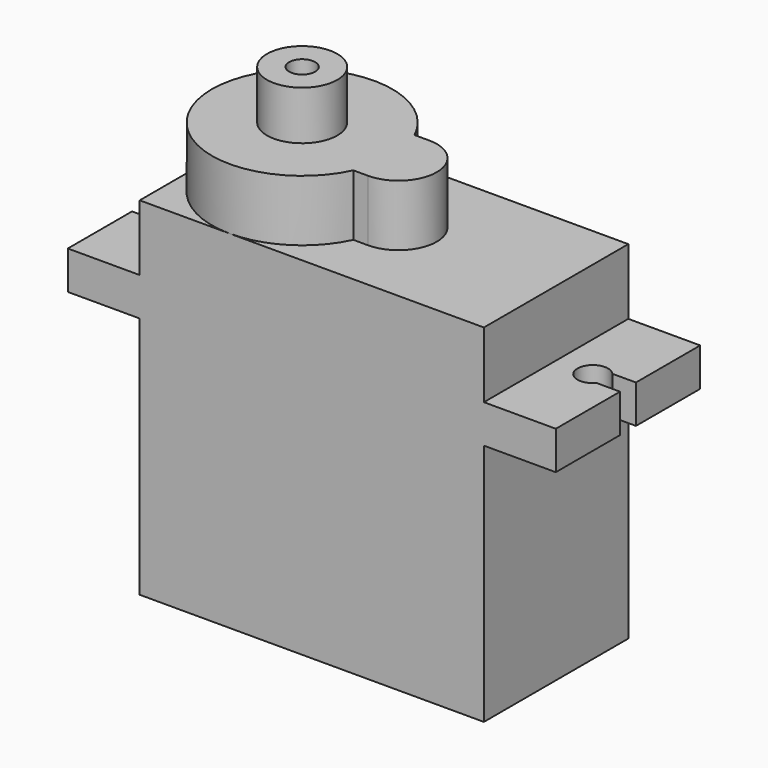
from build123d import *

# Parameters (mm, degrees)
F1_DEPTH  = 11.8
F3_DEPTH  = 4
F5_DEPTH  = 25
F7_DEPTH  = 25
F8_R      = 2.3
F9_DEPTH  = 3.2
F10_R     = 0.85
F11_DEPTH = 1.7


with BuildPart() as f1:
    # F0 (on Front) → F1 (new body)
    with BuildSketch(Plane.XZ):
        Polygon((0, 15.9), (0, 0), (22.5, 0), (22.5, 15.9), (27.2, 15.9), (27.2, 18.4), (22.5, 18.4), (22.5, 22.7), (0, 22.7), (0, 18.4), (-4.7, 18.4), (-4.7, 15.9), align=None)
    extrude(amount=-F1_DEPTH)

    # F2 (on face) → F3 (join)
    with BuildSketch(Plane.XY.offset(22.7)):
        with BuildLine():
            Line((12.2, 8.4), (11.244156, 8.4))
            ThreePointArc((11.244156, 8.4), (0, 5.9), (11.244156, 3.4))
            Line((11.244156, 3.4), (12.2, 3.4))
            ThreePointArc((12.2, 3.4), (14.7, 5.9), (12.2, 8.4))
        make_face()
    extrude(amount=F3_DEPTH)

    # F4 (on face) → F5 (cut)
    with BuildSketch(Plane.XY.offset(18.4)):
        with BuildLine():
            Line((27.2, 5.25), (27.2, 6.55))
            Line((27.2, 6.55), (25.659934, 6.55))
            ThreePointArc((25.659934, 6.55), (23.9, 5.9), (25.659934, 5.25))
            Line((25.659934, 5.25), (27.2, 5.25))
        make_face()
    extrude(amount=-F5_DEPTH, mode=Mode.SUBTRACT)

    # F6 (on face) → F7 (cut)
    with BuildSketch(Plane.XY.offset(18.4)):
        with BuildLine():
            Line((-3.159934, 6.55), (-4.7, 6.55))
            Line((-4.7, 6.55), (-4.7, 5.25))
            Line((-4.7, 5.25), (-3.159934, 5.25))
            ThreePointArc((-3.159934, 5.25), (-1.4, 5.9), (-3.159934, 6.55))
        make_face()
    extrude(amount=-F7_DEPTH, mode=Mode.SUBTRACT)

    # F8 (on face) → F9 (join)
    with BuildSketch(Plane.XY.offset(26.7)):
        with Locations((5.9, 5.9)):
            Circle(F8_R)
    extrude(amount=F9_DEPTH)

    # F10 (on face) → F11 (cut)
    with BuildSketch(Plane.XY.offset(29.9)):
        with Locations((5.9, 5.9)):
            Circle(F10_R)
    extrude(amount=-F11_DEPTH, mode=Mode.SUBTRACT)


solid = f1.part
